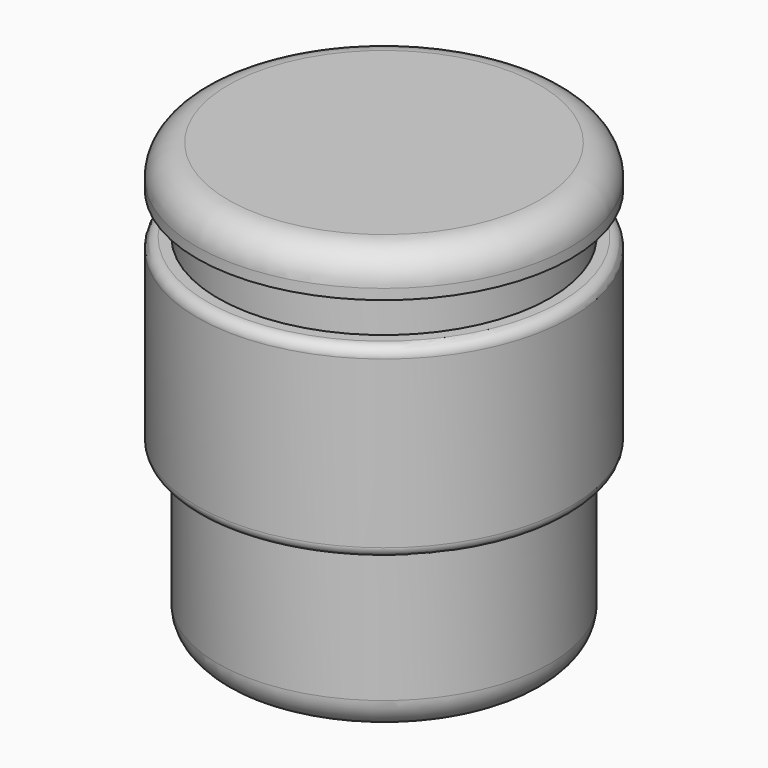
from build123d import *

# Parameters (mm, degrees)
SKETCH_R     = 9
PAD_DEPTH    = 2
SKETCH001_R  = 8
PAD001_DEPTH = 2
SKETCH002_R  = 9
PAD002_DEPTH = 9
SKETCH003_R  = 8
PAD003_DEPTH = 8
FILLET_R     = 1.5
FILLET001_R  = 0.5
FILLET002_R  = 1.5


with BuildPart() as part:
    # Sketch → Pad (new body)
    with BuildSketch(Plane.XY):
        Circle(SKETCH_R)
    extrude(amount=-PAD_DEPTH)

    # Sketch001 (on Face3 of Pad) → Pad001 (join)
    with BuildSketch(Plane(origin=(0, 0, -2), x_dir=(1, 0, 0), z_dir=(0, 0, -1))):
        Circle(SKETCH001_R)
    extrude(amount=PAD001_DEPTH)

    # Sketch002 (on Face5 of Pad001) → Pad002 (join)
    with BuildSketch(Plane(origin=(0, 0, -4), x_dir=(1, 0, 0), z_dir=(0, 0, -1))):
        Circle(SKETCH002_R)
    extrude(amount=PAD002_DEPTH)

    # Sketch003 (on Face7 of Pad002) → Pad003 (join)
    with BuildSketch(Plane(origin=(0, 0, -13), x_dir=(1, 0, 0), z_dir=(0, 0, -1))):
        Circle(SKETCH003_R)
    extrude(amount=PAD003_DEPTH)

    # Fillet
    fillet_edges = [part.edges().sort_by_distance(p)[0] for p in [
        (-9, 0, 0),
    ]]
    fillet(fillet_edges, radius=FILLET_R)

    # Fillet001
    fillet001_edges = [part.edges().sort_by_distance(p)[0] for p in [
        (-9, 0, -4),
        (-9, 0, -13),
    ]]
    fillet(fillet001_edges, radius=FILLET001_R)

    # Fillet002
    fillet002_edges = [part.edges().sort_by_distance(p)[0] for p in [
        (-8, 0, -21),
    ]]
    fillet(fillet002_edges, radius=FILLET002_R)


solid = part.part
